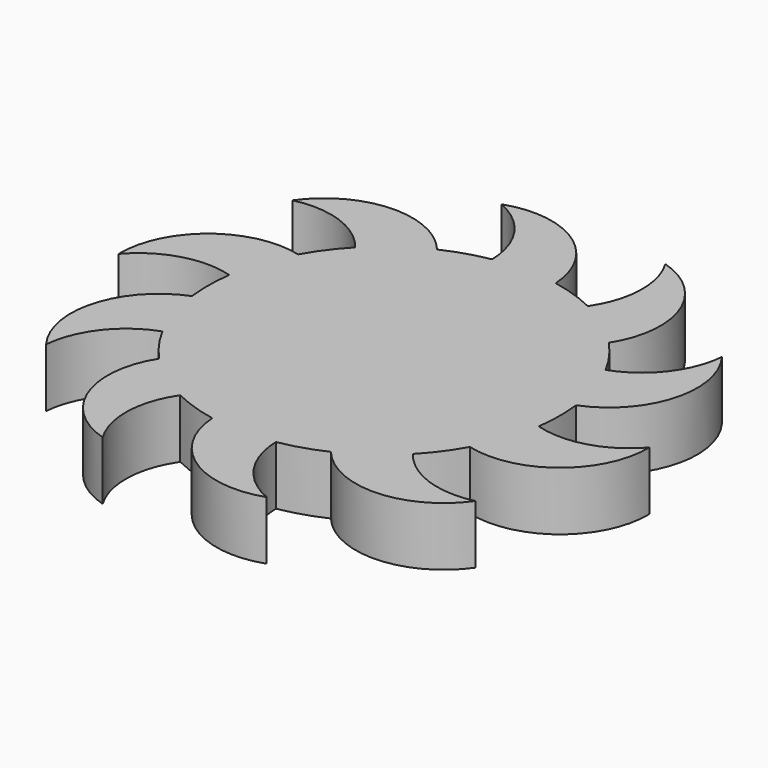
from build123d import *

# Parameters (mm, degrees)
F1_DEPTH = 10


with BuildPart() as f1:
    # F0 (on Top) → F1 (new body)
    with BuildSketch(Plane.XY):
        with BuildLine():
            ThreePointArc((-44.997356, -0.281624), (-38.008211, 4.194523), (-29.708603, 4.171202))
            ThreePointArc((-29.708603, 4.171202), (-29.998975, 0.248007), (-29.773505, -3.679453))
            ThreePointArc((-29.773505, -3.679453), (-38.710825, -13.574334), (-36.238091, -26.676621))
            ThreePointArc((-36.238091, -26.676621), (-33.214768, -18.947225), (-26.486535, -14.087706))
            ThreePointArc((-26.486535, -14.087706), (-24.415455, -17.432313), (-21.924544, -20.477167))
            ThreePointArc((-21.924544, -20.477167), (-23.338922, -33.735519), (-13.637107, -42.882055))
            ThreePointArc((-13.637107, -42.882055), (-15.734412, -34.851778), (-13.147512, -26.965588))
            ThreePointArc((-13.147512, -26.965588), (-9.506061, -28.454082), (-5.701152, -29.4533))
            ThreePointArc((-5.701152, -29.4533), (0.947656, -41.010882), (14.172788, -42.708002))
            ThreePointArc((14.172788, -42.708002), (7.755954, -37.444136), (5.213415, -29.543532))
            ThreePointArc((5.213415, -29.543532), (9.034325, -28.607359), (12.699887, -27.179273))
            ThreePointArc((12.699887, -27.179273), (24.872261, -32.621483), (36.56916, -26.220944))
            ThreePointArc((36.56916, -26.220944), (28.28381, -25.734107), (21.582994, -20.836852))
            ThreePointArc((21.582994, -20.836852), (24.123906, -17.833597), (26.25, -14.523688))
            ThreePointArc((26.25, -14.523688), (39.296508, -11.771785), (44.997356, 0.281624))
            ThreePointArc((44.997356, 0.281624), (38.008211, -4.194523), (29.708603, -4.171202))
            ThreePointArc((29.708603, -4.171202), (29.998975, -0.248007), (29.773505, 3.679453))
            ThreePointArc((29.773505, 3.679453), (38.710825, 13.574334), (36.238091, 26.676621))
            ThreePointArc((36.238091, 26.676621), (33.214768, 18.947225), (26.486535, 14.087706))
            ThreePointArc((26.486535, 14.087706), (24.415455, 17.432313), (21.924544, 20.477167))
            ThreePointArc((21.924544, 20.477167), (23.338922, 33.735519), (13.637107, 42.882055))
            ThreePointArc((13.637107, 42.882055), (15.734412, 34.851778), (13.147512, 26.965588))
            ThreePointArc((13.147512, 26.965588), (9.506061, 28.454082), (5.701152, 29.4533))
            ThreePointArc((5.701152, 29.4533), (-0.947656, 41.010882), (-14.172788, 42.708002))
            ThreePointArc((-14.172788, 42.708002), (-7.755954, 37.444136), (-5.213415, 29.543532))
            ThreePointArc((-5.213415, 29.543532), (-9.034325, 28.607359), (-12.699887, 27.179273))
            ThreePointArc((-12.699887, 27.179273), (-24.872261, 32.621483), (-36.56916, 26.220944))
            ThreePointArc((-36.56916, 26.220944), (-28.28381, 25.734107), (-21.582994, 20.836852))
            ThreePointArc((-21.582994, 20.836852), (-24.123906, 17.833597), (-26.25, 14.523688))
            ThreePointArc((-26.25, 14.523688), (-39.296508, 11.771785), (-44.997356, -0.281624))
        make_face()
    extrude(amount=F1_DEPTH)


solid = f1.part
